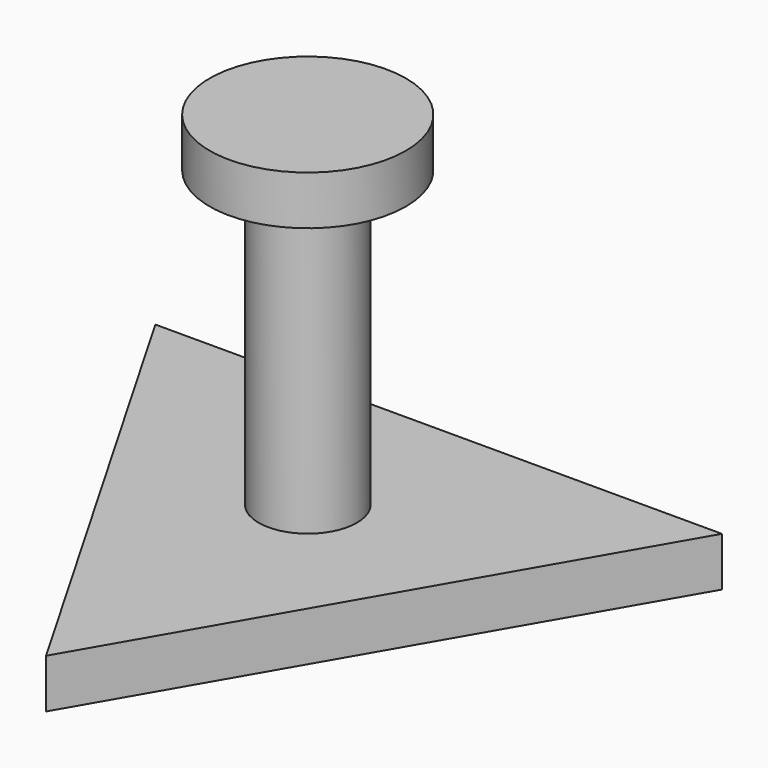
from build123d import *

# Parameters (mm, degrees)
F1_DEPTH = 19.05
F2_R     = 19.05
F3_DEPTH = 114.3
F4_R     = 38.1
F4_R_2   = 19.05
F5_DEPTH = 19.05


with BuildPart() as f1:
    # F0 (on Top) → F1 (new body)
    with BuildSketch(Plane.XY):
        Polygon((-109.985226, 63.5), (0, -127), (109.985226, 63.5), align=None)
    extrude(amount=F1_DEPTH)

    # F2 (on face) → F3 (join)
    with BuildSketch(Plane.XY.offset(19.05)):
        Circle(F2_R)
    extrude(amount=F3_DEPTH)

    # F4 (on face) → F5 (join)
    with BuildSketch(Plane.XY.offset(133.35)):
        Circle(F4_R)
        Circle(F4_R_2, mode=Mode.SUBTRACT)
        Circle(F4_R_2)
    extrude(amount=F5_DEPTH)


solid = f1.part
